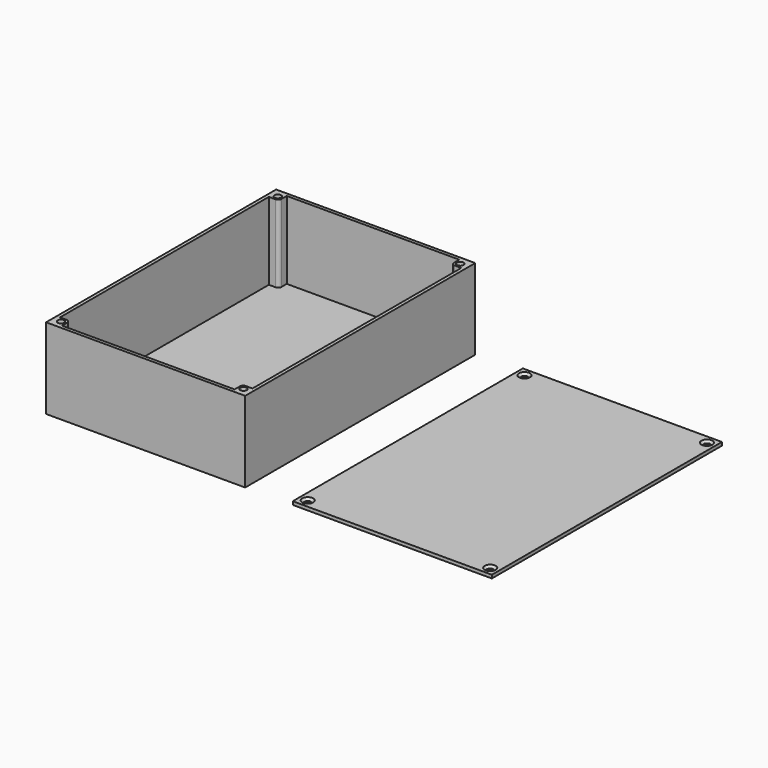
from build123d import *

# Parameters (mm, degrees)
SKETCH_W        = 90
SKETCH_H        = 130
PAD_DEPTH       = 36.5
SKETCH001_W     = 87
SKETCH001_H     = 127
POCKET_DEPTH    = 35
SKETCH002_W     = 4.5
SKETCH002_H     = 4.5
PAD001_DEPTH    = 35
SKETCH003_R     = 1.5
POCKET001_DEPTH = 15
FILLET_R        = 1.5
FILLET001_R     = 1.5
FILLET002_R     = 1.5
FILLET003_R     = 1.5
SKETCH004_W     = 90
SKETCH004_H     = 130
PAD002_DEPTH    = 1.5
SKETCH005_R     = 1.5
POCKET002_DEPTH = 1.5
CHAMFER_SIZE    = 1
CHAMFER001_SIZE = 1
CHAMFER002_SIZE = 1
CHAMFER003_SIZE = 1


with BuildPart() as box:
    # Sketch → Pad (new body)
    with BuildSketch(Plane.XY):
        with Locations((9.174664, -31.069731)):
            Rectangle(SKETCH_W, SKETCH_H)
    extrude(amount=PAD_DEPTH)

    # Sketch001 (on Face6 of Pad) → Pocket (cut)
    with BuildSketch(Plane.XY.offset(36.5)):
        with Locations((9.174664, -31.069731)):
            Rectangle(SKETCH001_W, SKETCH001_H)
    extrude(amount=-POCKET_DEPTH, mode=Mode.SUBTRACT)

    # Sketch002 (on Face11 of Pocket) → Pad001 (join)
    with BuildSketch(Plane.XY.offset(1.5)):
        with Locations((-32.075336, -92.319731)):
            Rectangle(SKETCH002_W, SKETCH002_H)
        with Locations((50.424664, -92.319731)):
            Rectangle(SKETCH002_W, SKETCH002_H)
        with Locations((50.424664, 30.180269)):
            Rectangle(SKETCH002_W, SKETCH002_H)
        with Locations((-32.075336, 30.180269)):
            Rectangle(SKETCH002_W, SKETCH002_H)
    extrude(amount=PAD001_DEPTH)

    # Sketch003 (on Face9 of Pad001) → Pocket001 (cut)
    with BuildSketch(Plane.XY.offset(36.5)):
        with Locations((50.424664, 30.180269)):
            Circle(SKETCH003_R)
        with Locations((-32.075336, 30.180269)):
            Circle(SKETCH003_R)
        with Locations((-32.075336, -92.319731)):
            Circle(SKETCH003_R)
        with Locations((50.424664, -92.319731)):
            Circle(SKETCH003_R)
    extrude(amount=-POCKET001_DEPTH, mode=Mode.SUBTRACT)

    # Fillet
    fillet_edges = [box.edges().sort_by_distance(p)[0] for p in [
        (-29.825336, -90.069731, 19),
    ]]
    fillet(fillet_edges, radius=FILLET_R)

    # Fillet001
    fillet001_edges = [box.edges().sort_by_distance(p)[0] for p in [
        (48.174664, -90.069731, 19),
    ]]
    fillet(fillet001_edges, radius=FILLET001_R)

    # Fillet002
    fillet002_edges = [box.edges().sort_by_distance(p)[0] for p in [
        (-29.825336, 27.930269, 19),
    ]]
    fillet(fillet002_edges, radius=FILLET002_R)

    # Fillet003
    fillet003_edges = [box.edges().sort_by_distance(p)[0] for p in [
        (48.174664, 27.930269, 19),
    ]]
    fillet(fillet003_edges, radius=FILLET003_R)


with BuildPart() as lid:
    # Sketch004 → Pad002 (new body)
    with BuildSketch(Plane.XY):
        with Locations((120.622687, -30.971468)):
            Rectangle(SKETCH004_W, SKETCH004_H)
    extrude(amount=PAD002_DEPTH)

    # Sketch005 (on Face6 of Pad002) → Pocket002 (cut)
    with BuildSketch(Plane.XY.offset(1.5)):
        with Locations((79.372687, 30.278532)):
            Circle(SKETCH005_R)
        with Locations((79.372687, -92.221468)):
            Circle(SKETCH005_R)
        with Locations((161.872687, -92.221468)):
            Circle(SKETCH005_R)
        with Locations((161.872687, 30.278532)):
            Circle(SKETCH005_R)
    extrude(amount=-POCKET002_DEPTH, mode=Mode.SUBTRACT)

    # Chamfer
    chamfer_edges = [lid.edges().sort_by_distance(p)[0] for p in [
        (77.872687, -92.221468, 1.5),
    ]]
    chamfer(chamfer_edges, length=CHAMFER_SIZE)

    # Chamfer001
    chamfer001_edges = [lid.edges().sort_by_distance(p)[0] for p in [
        (160.372687, -92.221468, 1.5),
    ]]
    chamfer(chamfer001_edges, length=CHAMFER001_SIZE)

    # Chamfer002
    chamfer002_edges = [lid.edges().sort_by_distance(p)[0] for p in [
        (160.372687, 30.278532, 1.5),
    ]]
    chamfer(chamfer002_edges, length=CHAMFER002_SIZE)

    # Chamfer003
    chamfer003_edges = [lid.edges().sort_by_distance(p)[0] for p in [
        (77.872687, 30.278532, 1.5),
    ]]
    chamfer(chamfer003_edges, length=CHAMFER003_SIZE)


solid = Compound([box.part, lid.part])
